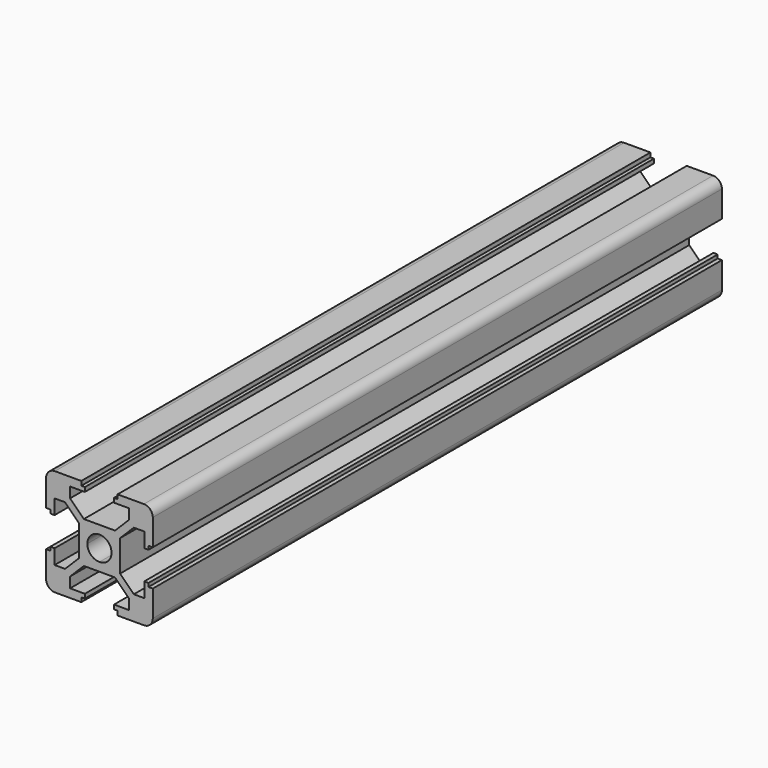
from build123d import *

# Parameters (mm, degrees)
F1_DEPTH = 200


with BuildPart() as f1:
    # F0 (on Front) → F1 (new body)
    with BuildSketch(Plane.XZ):
        with BuildLine():
            Line((12.5, 15), (5.1, 15))
            Line((5.1, 15), (5.1, 13.8))
            Line((5.1, 13.8), (4.1, 13.8))
            Line((4.1, 13.8), (4.1, 12.6))
            Line((4.1, 12.6), (8.25, 12.6))
            Line((8.25, 12.6), (8.25, 9.664214))
            Line((8.25, 9.664214), (5.092893, 6.507107))
            Line((5.092893, 6.507107), (4.385786, 5.8))
            Line((4.385786, 5.8), (0, 5.8))
            Line((0, 5.8), (-4.385786, 5.8))
            Line((-4.385786, 5.8), (-5.092893, 6.507107))
            Line((-5.092893, 6.507107), (-8.25, 9.664214))
            Line((-8.25, 9.664214), (-8.25, 12.6))
            Line((-8.25, 12.6), (-4.1, 12.6))
            Line((-4.1, 12.6), (-4.1, 13.8))
            Line((-4.1, 13.8), (-5.1, 13.8))
            Line((-5.1, 13.8), (-5.1, 15))
            Line((-5.1, 15), (-12.5, 15))
            ThreePointArc((-12.5, 15), (-14.267767, 14.267767), (-15, 12.5))
            Line((-15, 12.5), (-15, 5.1))
            Line((-15, 5.1), (-13.8, 5.1))
            Line((-13.8, 5.1), (-13.8, 4.1))
            Line((-13.8, 4.1), (-12.6, 4.1))
            Line((-12.6, 4.1), (-12.6, 8.25))
            Line((-12.6, 8.25), (-9.664214, 8.25))
            Line((-9.664214, 8.25), (-6.507107, 5.092893))
            Line((-6.507107, 5.092893), (-5.8, 4.385786))
            Line((-5.8, 4.385786), (-5.8, 0))
            Line((-5.8, 0), (-5.8, -4.385786))
            Line((-5.8, -4.385786), (-6.507107, -5.092893))
            Line((-6.507107, -5.092893), (-9.664214, -8.25))
            Line((-9.664214, -8.25), (-12.6, -8.25))
            Line((-12.6, -8.25), (-12.6, -4.1))
            Line((-12.6, -4.1), (-13.8, -4.1))
            Line((-13.8, -4.1), (-13.8, -5.1))
            Line((-13.8, -5.1), (-15, -5.1))
            Line((-15, -5.1), (-15, -12.5))
            ThreePointArc((-15, -12.5), (-14.267767, -14.267767), (-12.5, -15))
            Line((-12.5, -15), (-5.1, -15))
            Line((-5.1, -15), (-5.1, -13.8))
            Line((-5.1, -13.8), (-4.1, -13.8))
            Line((-4.1, -13.8), (-4.1, -12.6))
            Line((-4.1, -12.6), (-8.25, -12.6))
            Line((-8.25, -12.6), (-8.25, -9.664214))
            Line((-8.25, -9.664214), (-5.092893, -6.507107))
            Line((-5.092893, -6.507107), (-4.385786, -5.8))
            Line((-4.385786, -5.8), (0, -5.8))
            Line((0, -5.8), (4.385786, -5.8))
            Line((4.385786, -5.8), (5.092893, -6.507107))
            Line((5.092893, -6.507107), (8.25, -9.664214))
            Line((8.25, -9.664214), (8.25, -12.6))
            Line((8.25, -12.6), (4.1, -12.6))
            Line((4.1, -12.6), (4.1, -13.8))
            Line((4.1, -13.8), (5.1, -13.8))
            Line((5.1, -13.8), (5.1, -15))
            Line((5.1, -15), (12.5, -15))
            ThreePointArc((12.5, -15), (14.267767, -14.267767), (15, -12.5))
            Line((15, -12.5), (15, -5.1))
            Line((15, -5.1), (13.8, -5.1))
            Line((13.8, -5.1), (13.8, -4.1))
            Line((13.8, -4.1), (12.6, -4.1))
            Line((12.6, -4.1), (12.6, -8.25))
            Line((12.6, -8.25), (9.664214, -8.25))
            Line((9.664214, -8.25), (6.507107, -5.092893))
            Line((6.507107, -5.092893), (5.8, -4.385786))
            Line((5.8, -4.385786), (5.8, 0))
            Line((5.8, 0), (5.8, 4.385786))
            Line((5.8, 4.385786), (6.507107, 5.092893))
            Line((6.507107, 5.092893), (9.664214, 8.25))
            Line((9.664214, 8.25), (12.6, 8.25))
            Line((12.6, 8.25), (12.6, 4.1))
            Line((12.6, 4.1), (13.8, 4.1))
            Line((13.8, 4.1), (13.8, 5.1))
            Line((13.8, 5.1), (15, 5.1))
            Line((15, 5.1), (15, 12.5))
            ThreePointArc((15, 12.5), (14.267767, 14.267767), (12.5, 15))
        make_face()
        with BuildLine():
            ThreePointArc((-3.4, 0), (-2.404163, 2.404163), (0, 3.4))
            ThreePointArc((0, 3.4), (2.404163, 2.404163), (3.4, 0))
            ThreePointArc((3.4, 0), (2.404163, -2.404163), (0, -3.4))
            ThreePointArc((0, -3.4), (-2.404163, -2.404163), (-3.4, 0))
        make_face(mode=Mode.SUBTRACT)
    extrude(amount=F1_DEPTH)


solid = f1.part
